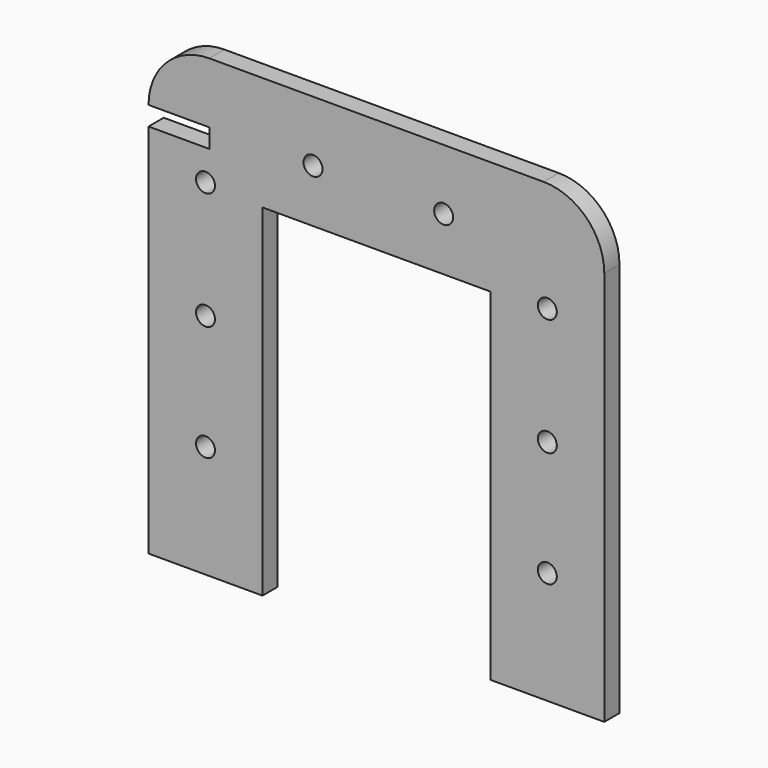
from build123d import *

# Parameters (mm, degrees)
F0_R     = 1.5875
F1_DEPTH = 3.175


with BuildPart() as f1:
    # F0 (on Front) → F1 (new body)
    with BuildSketch(Plane.XZ):
        with BuildLine():
            Line((-60.858539, 25.969646), (-60.858539, -31.180354))
            Line((-60.858539, -31.180354), (-41.808539, -31.180354))
            Line((-41.808539, -31.180354), (-41.808539, 34.859646))
            ThreePointArc((-41.808539, 34.859646), (-44.784334, 42.043851), (-51.968539, 45.019646))
            Line((-51.968539, 45.019646), (-60.858539, 45.019646))
            Line((-60.858539, 45.019646), (-107.848539, 45.019646))
            ThreePointArc((-107.848539, 45.019646), (-115.032744, 42.043851), (-118.008539, 34.859646))
            Line((-118.008539, 34.859646), (-107.848539, 34.859646))
            Line((-107.848539, 34.859646), (-107.848539, 31.684646))
            Line((-107.848539, 31.684646), (-118.008539, 31.684646))
            Line((-118.008539, 31.684646), (-118.008539, 25.969646))
            Line((-118.008539, 25.969646), (-118.008539, -31.180354))
            Line((-118.008539, -31.180354), (-98.958539, -31.180354))
            Line((-98.958539, -31.180354), (-98.958539, 25.969646))
            Line((-98.958539, 25.969646), (-60.858539, 25.969646))
        make_face()
        with Locations((-108.483539, -12.373072)):
            Circle(F0_R, mode=Mode.SUBTRACT)
        with Locations((-108.483539, 6.919646)):
            Circle(F0_R, mode=Mode.SUBTRACT)
        with Locations((-51.333539, -12.373072)):
            Circle(F0_R, mode=Mode.SUBTRACT)
        with Locations((-108.483539, 26.55172)):
            Circle(F0_R, mode=Mode.SUBTRACT)
        with Locations((-90.511069, 34.859646)):
            Circle(F0_R, mode=Mode.SUBTRACT)
        with Locations((-51.333539, 6.919646)):
            Circle(F0_R, mode=Mode.SUBTRACT)
        with Locations((-68.661369, 34.859646)):
            Circle(F0_R, mode=Mode.SUBTRACT)
        with Locations((-51.333539, 26.55172)):
            Circle(F0_R, mode=Mode.SUBTRACT)
    extrude(amount=F1_DEPTH)


solid = f1.part
